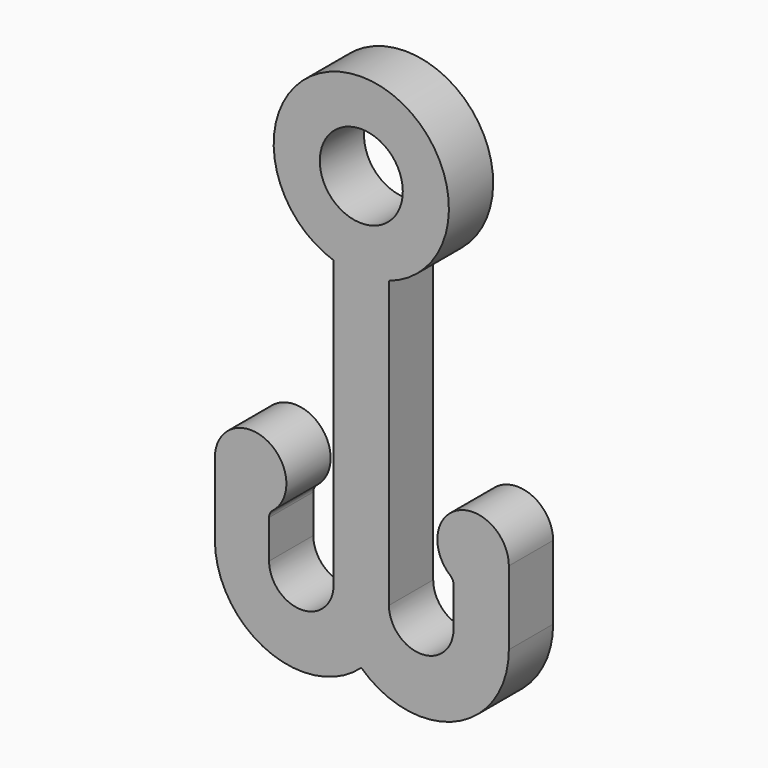
from build123d import *

# Parameters (mm, degrees)
F1_R     = 2.25
F0_DEPTH = 3


with BuildPart() as f0:
    # F1 (on Front) → F0 (new body)
    with BuildSketch(Plane.XZ):
        with BuildLine():
            Line((1.5, -20), (1.5, -4.506939))
            ThreePointArc((1.5, -4.506939), (0, 4.75), (-1.5, -4.506939))
            Line((-1.5, -4.506939), (-1.5, -20))
            ThreePointArc((-1.5, -20), (-3.25, -21.75), (-5, -20))
            Line((-5, -20), (-5, -17.921303))
            ThreePointArc((-5, -17.921303), (-4.949359, -17.702039), (-4.807692, -17.52719))
            ThreePointArc((-4.807692, -17.52719), (-5.15035, -14.258736), (-7.9375, -16))
            Line((-7.9375, -16), (-7.9375, -20))
            ThreePointArc((-7.9375, -20), (-5.087796, -24.296187), (0, -23.464102))
            ThreePointArc((0, -23.464102), (5.137459, -24.358899), (8, -20))
            Line((8, -20), (8, -16))
            ThreePointArc((8, -16), (5.240564, -14.244698), (4.820345, -17.487997))
            ThreePointArc((4.820345, -17.487997), (4.952864, -17.659969), (5, -17.871897))
            Line((5, -17.871897), (5, -20))
            ThreePointArc((5, -20), (3.25, -21.75), (1.5, -20))
        make_face()
        Circle(F1_R, mode=Mode.SUBTRACT)
    extrude(amount=F0_DEPTH)


solid = f0.part
